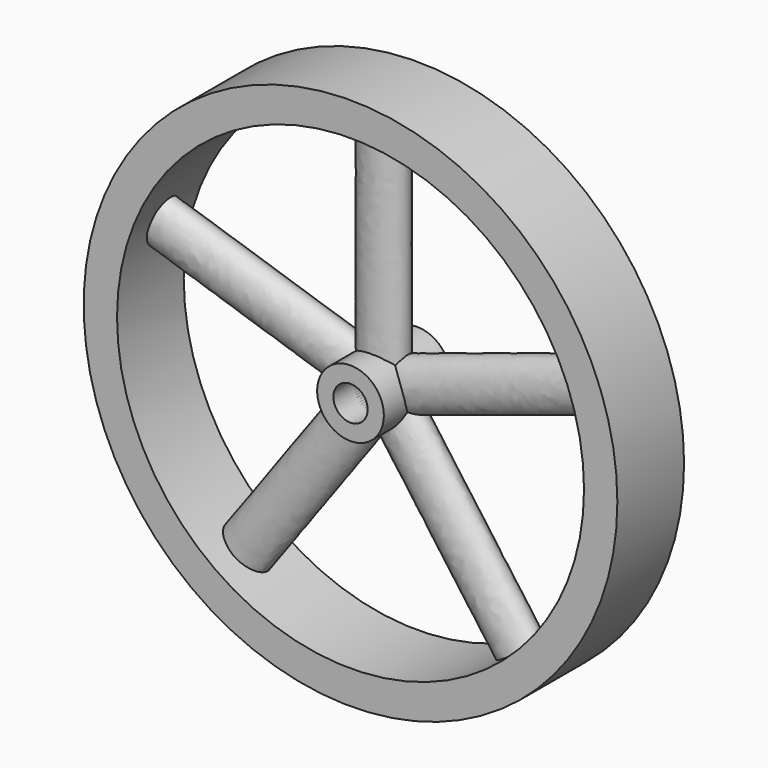
from build123d import *

# Parameters (mm, degrees)
F3_DEPTH = 44.45
F4_COUNT = 5
F0_R     = 6.35
F5_DEPTH = 7.9375
F7_D     = 6.5278
F7_2_D   = 6.5278
F7_3_D   = 6.5278
F7_4_D   = 6.5278
F7_5_D   = 6.5278
F7_6_D   = 6.5278
F0_R_2   = 50.8
F0_R_3   = 44.45
F8_DEPTH = 7.9375


with BuildPart() as f3:
    # F2 (on Top) → F3 (new body)
    with BuildSketch(Plane.XY):
        with BuildLine():
            add(Edge.make_bspline(
                [(4.7625, 0), (4.7625, 5.499261314), (-2.38125, 2.749630657), (-9.525, 0), (-2.38125, -2.749630657), (4.7625, -5.499261314), (4.7625, 0)],
                knots=[0, 0, 0, 2.0943951024, 2.0943951024, 4.1887902048, 4.1887902048, 6.2831853072, 6.2831853072, 6.2831853072], degree=2, weights=[1, 0.5, 1, 0.5, 1, 0.5, 1]))
        make_face()
    extrude(amount=F3_DEPTH)


with BuildPart() as f4_1:
    # F4: instance of F3
    add(f3.part.rotate(Axis((0, -25.1068901271, 0), (0, -1, 0)), 1 * 360 / F4_COUNT))

    # F7#2 (through all)
    with Locations(Plane.XZ.offset(7.9375)):
        with Locations((0, 0)):
            Hole(F7_2_D / 2)


with BuildPart() as f4_2:
    # F4: instance of F3
    add(f3.part.rotate(Axis((0, -25.1068901271, 0), (0, -1, 0)), 2 * 360 / F4_COUNT))

    # F7#3 (through all)
    with Locations(Plane.XZ.offset(7.9375)):
        with Locations((0, 0)):
            Hole(F7_3_D / 2)


with BuildPart() as f4_3:
    # F4: instance of F3
    add(f3.part.rotate(Axis((0, -25.1068901271, 0), (0, -1, 0)), 3 * 360 / F4_COUNT))

    # F7#4 (through all)
    with Locations(Plane.XZ.offset(7.9375)):
        with Locations((0, 0)):
            Hole(F7_4_D / 2)


with BuildPart() as f4_4:
    # F4: instance of F3
    add(f3.part.rotate(Axis((0, -25.1068901271, 0), (0, -1, 0)), 4 * 360 / F4_COUNT))

    # F7#5 (through all)
    with Locations(Plane.XZ.offset(7.9375)):
        with Locations((0, 0)):
            Hole(F7_5_D / 2)


with BuildPart() as f5:
    # F0 (on Front) → F5 (new body, symmetric)
    with BuildSketch(Plane.XZ):
        Circle(F0_R)
    extrude(amount=F5_DEPTH, both=True)

    # F7#6 (through all)
    with Locations(Plane.XZ.offset(7.9375)):
        with Locations((0, 0)):
            Hole(F7_6_D / 2)


with BuildPart() as f3_1:
    add(f3.part)

    # F7 (through all)
    with Locations(Plane.XZ.offset(7.9375)):
        with Locations((0, 0)):
            Hole(F7_D / 2)


with BuildPart() as f8:
    # F0 (on Front) → F8 (new body, symmetric)
    with BuildSketch(Plane.XZ):
        Circle(F0_R_2)
        Circle(F0_R_3, mode=Mode.SUBTRACT)
    extrude(amount=F8_DEPTH, both=True)


solid = Compound([f4_1.part, f4_2.part, f4_3.part, f4_4.part, f5.part, f3_1.part, f8.part])
